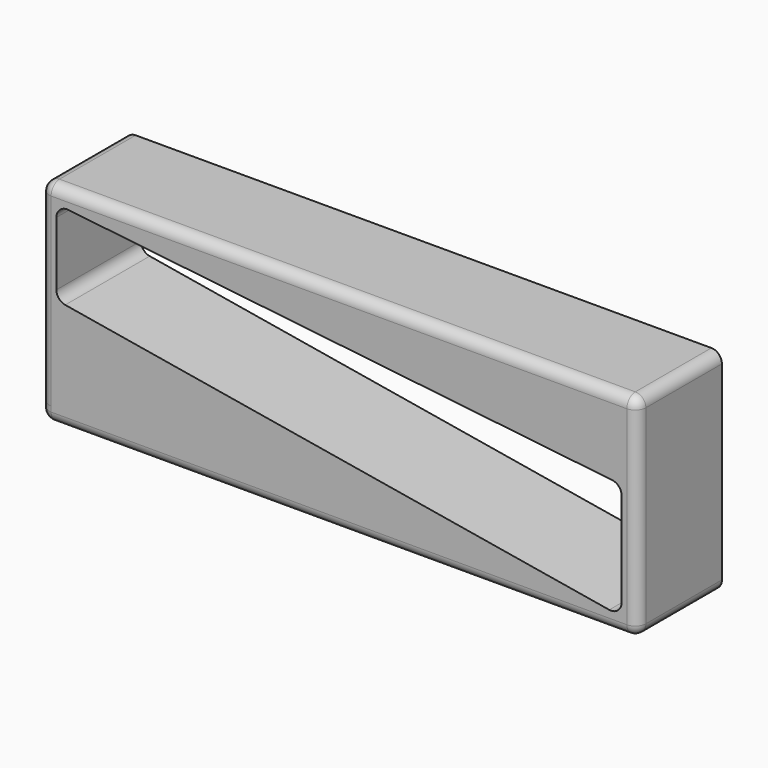
from build123d import *

# Parameters (mm, degrees)
F0_W     = 53.5
F0_H     = 1.5
F0_W_2   = 1.5
F1_DEPTH = 10
F2_R     = 1
F3_R     = 1


with BuildPart() as f1:
    # F0 (on Front) → F1 (new body)
    with BuildSketch(Plane.XZ):
        with Locations((26.75, -0.75)):
            Rectangle(F0_W, F0_H)
        Polygon((0, 9), (0, 0), (53.5, 0), align=None)
        with Locations((-0.75, -0.75)):
            Rectangle(F0_W_2, F0_H)
        Polygon((53.5, 11), (53.5, 0), (53.5, -1.5), (54.999999, -1.5), (54.999999, 18.5), (53.5, 18.5), align=None)
        Polygon((-1.5, 0), (0, 0), (0, 9), (0, 17), (53.5, 11), (53.5, 18.5), (-1.500001, 18.5), align=None)
    extrude(amount=F1_DEPTH)

    # F2
    f2_edges = [f1.edges().sort_by_distance(p)[0] for p in [
        (54.999999, -10, 8.5),
        (26.749999, -10, 18.5),
        (26.75, -10, -1.5),
        (-1.5, -10, 9.25),
        (-1.5, -10, -0.75),
        (-1.5, -5, -1.5),
        (-1.500001, -5, 18.5),
        (54.999999, -5, 18.5),
        (54.999999, -5, -1.5),
    ]]
    fillet(f2_edges, radius=F2_R)

    # F3
    f3_edges = [f1.edges().sort_by_distance(p)[0] for p in [
        (0, -5, 17),
        (0, -5, 9),
        (53.5, -5, 11),
        (53.5, -5, 0),
    ]]
    fillet(f3_edges, radius=F3_R)


solid = f1.part
